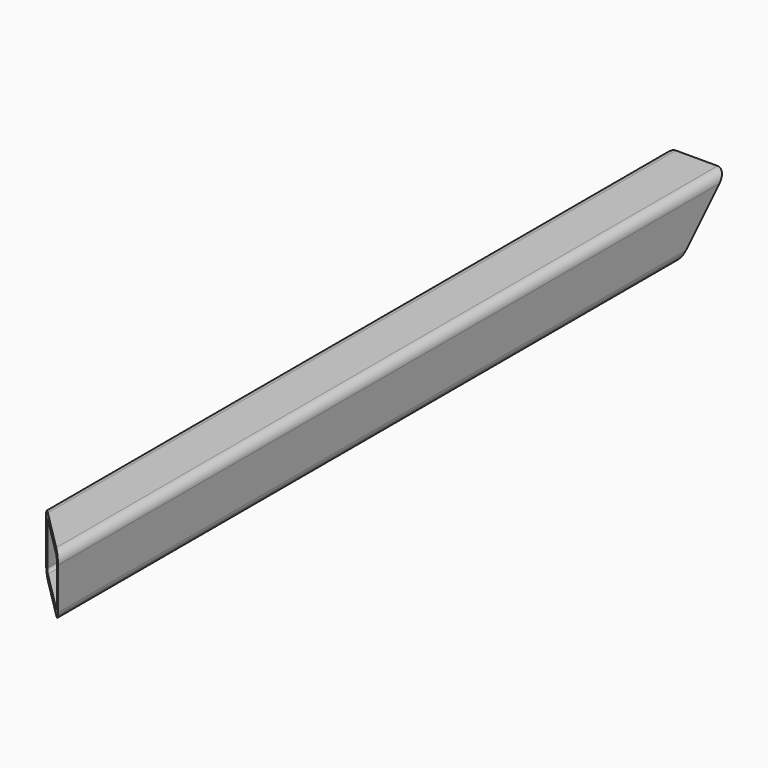
from build123d import *

# Parameters (mm, degrees)
F2_W     = 20
F2_H     = 20
F3_DEPTH = 140
F4_R     = 3
F5_T     = -2
F7_DEPTH = 20.001
F9_DEPTH = 20.001


with BuildPart() as f3:
    # F2 (on Front) → F3 (new body, symmetric)
    with BuildSketch(Plane.XZ):
        Rectangle(F2_W, F2_H)
    extrude(amount=F3_DEPTH, both=True)

    # F4
    f4_edges = [f3.edges().sort_by_distance(p)[0] for p in [
        (10, 0, 10),
        (-10, 0, 10),
        (10, 0, -10),
        (-10, 0, -10),
    ]]
    fillet(f4_edges, radius=F4_R)

    # F5
    f5_openings = [f3.faces().sort_by_distance(p)[0] for p in [
        (0, -140, 0),
        (0, 140, 0),
    ]]
    offset(amount=F5_T, openings=f5_openings)

    # F6 (on face) → F7 (cut, through all)
    with BuildSketch(Plane(origin=(-10, 0, 0), x_dir=(0, -1, 0), z_dir=(-1, 0, 0))):
        Polygon((-140, 10), (-140, -10), (-120, -10), align=None)
    extrude(amount=-F7_DEPTH, mode=Mode.SUBTRACT)

    # F8 (on face) → F9 (cut, through all)
    with BuildSketch(Plane(origin=(0, 0, -10), x_dir=(1, 0, 0), z_dir=(0, 0, -1))):
        Polygon((-10, 140), (-10, 120), (10, 140), align=None)
    extrude(amount=-F9_DEPTH, mode=Mode.SUBTRACT)


solid = f3.part
